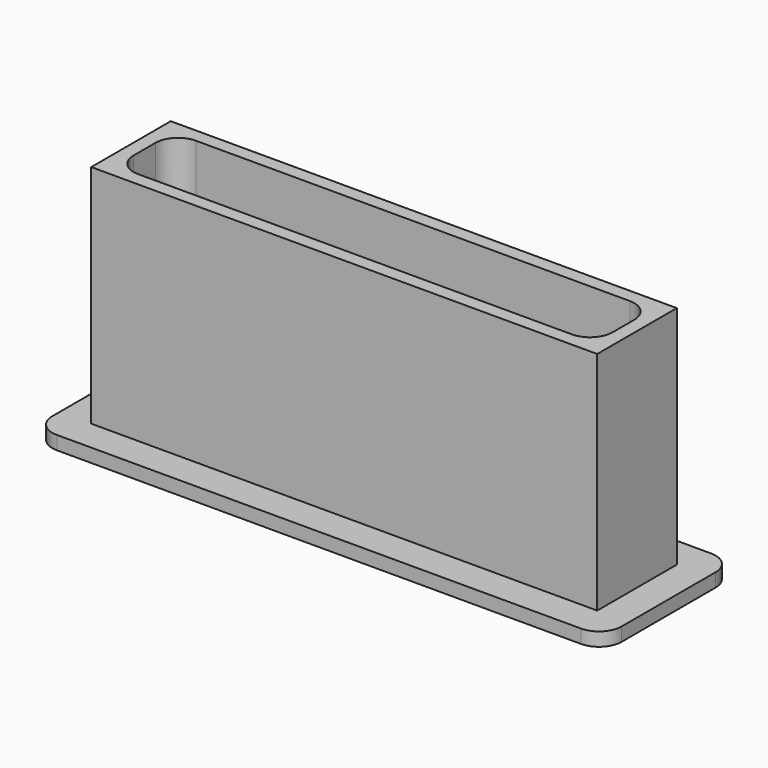
from build123d import *

# Parameters (mm, degrees)
F0_W     = 126
F0_H     = 36
F0_W_2   = 106
F0_H_2   = 16
F1_DEPTH = 3
F2_W     = 112
F2_H     = 22
F2_W_2   = 106
F2_H_2   = 16
F3_DEPTH = 50
F4_R     = 5


with BuildPart() as f1:
    # F0 (on Top) → F1 (new body)
    with BuildSketch(Plane.XY):
        with Locations((-53, 8)):
            Rectangle(F0_W, F0_H)
        with Locations((-53, 8)):
            Rectangle(F0_W_2, F0_H_2, mode=Mode.SUBTRACT)
    extrude(amount=F1_DEPTH)

    # F2 (on face) → F3 (join)
    with BuildSketch(Plane.XY.offset(3)):
        with Locations((-53, 8)):
            Rectangle(F2_W, F2_H)
        with Locations((-53, 8)):
            Rectangle(F2_W_2, F2_H_2, mode=Mode.SUBTRACT)
    extrude(amount=F3_DEPTH)

    # F4
    f4_edges = [f1.edges().sort_by_distance(p)[0] for p in [
        (-116, 26, 1.5),
        (10, 26, 1.5),
        (10, -10, 1.5),
        (-116, -10, 1.5),
        (-106, 16, 26.5),
        (0, 16, 26.5),
        (0, 0, 26.5),
        (-106, 0, 26.5),
    ]]
    fillet(f4_edges, radius=F4_R)


solid = f1.part
